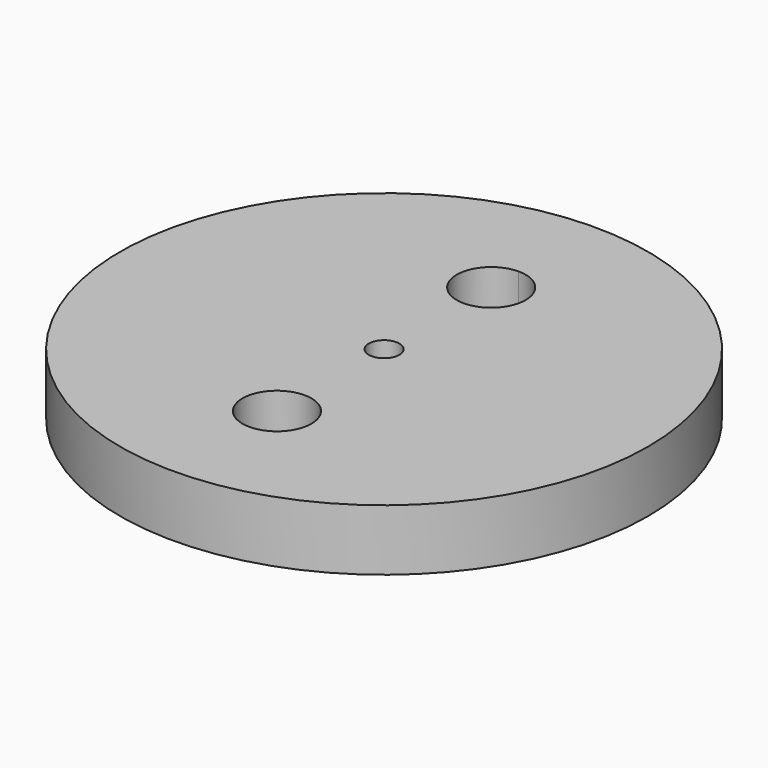
from build123d import *

# Parameters (mm, degrees)
F0_R     = 34.5
F0_R_2   = 2
F1_DEPTH = 8


with BuildPart() as f1:
    # F0 (on Top) → F1 (new body)
    with BuildSketch(Plane.XY):
        Circle(F0_R)
        with BuildLine():
            ThreePointArc((0, 22), (15.5563491861, 15.5563491861), (22, 0))
            ThreePointArc((22, 0), (15.5563491861, -15.5563491861), (0, -22))
            ThreePointArc((0, -22), (-22, 0), (0, 22))
        make_face(mode=Mode.SUBTRACT)
        with BuildLine():
            ThreePointArc((0, -22), (15.5563491861, -15.5563491861), (22, 0))
            ThreePointArc((22, 0), (15.5563491861, 15.5563491861), (0, 22))
            ThreePointArc((0, 22), (-22, 0), (0, -22))
        make_face()
        with BuildLine():
            ThreePointArc((4.5, -17.5), (3.1819805153, -20.6819805153), (0, -22))
            ThreePointArc((0, -22), (-3.1819805153, -14.3180194847), (4.5, -17.5))
        make_face(mode=Mode.SUBTRACT)
        Circle(F0_R_2, mode=Mode.SUBTRACT)
        with BuildLine():
            ThreePointArc((4.5, 17.5), (-3.1819805153, 14.3180194847), (0, 22))
            ThreePointArc((0, 22), (3.1819805153, 20.6819805153), (4.5, 17.5))
        make_face(mode=Mode.SUBTRACT)
    extrude(amount=F1_DEPTH)


solid = f1.part
